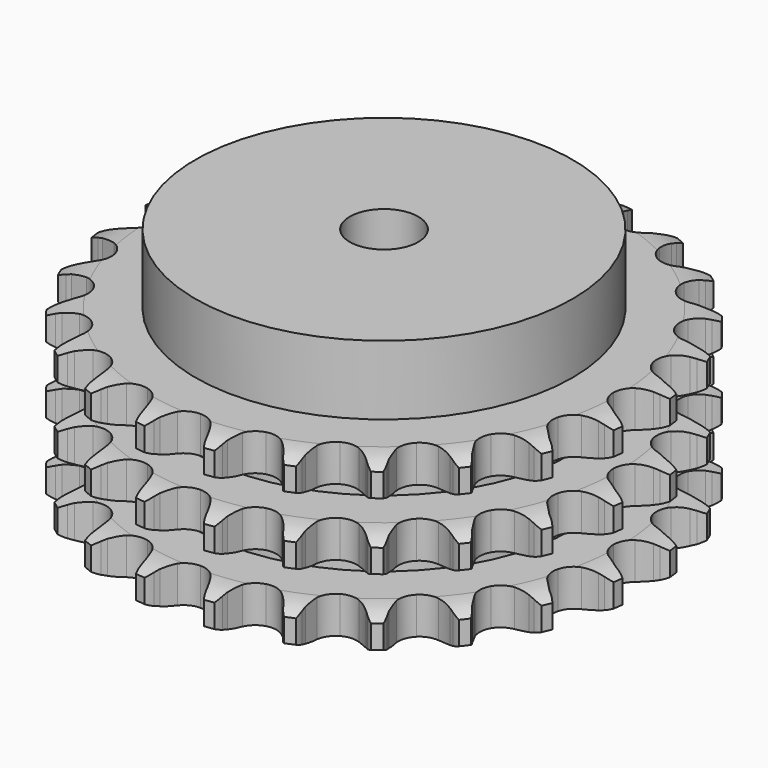
from build123d import *

# Parameters (mm, degrees)
PAD_DEPTH         = 49.8
SKETCH001_R       = 55
PAD001_DEPTH      = 70
SKETCH002_R       = 10
POCKET_DEPTH      = 0.001
POCKET_DEPTH_BACK = 70.001


with BuildPart() as part:
    # Sprocket → Pad (new body)
    with BuildSketch(Plane.XY):
        with BuildLine():
            ThreePointArc((-10.307817, 78.29564), (-8.698653, 76.541305), (-7.554291, 74.453833))
            Line((-7.554291, 74.453833), (-6.968236, 72.99106))
            ThreePointArc((-6.968236, 72.99106), (-6.032923, 71.051956), (-4.842054, 69.258421))
            ThreePointArc((-4.842054, 69.258421), (-2.69941, 67.499998), (0, 66.870584))
            ThreePointArc((0, 66.870584), (2.69941, 67.499998), (4.842054, 69.258421))
            ThreePointArc((4.842054, 69.258421), (6.032923, 71.051956), (6.968236, 72.99106))
            Line((6.968236, 72.99106), (7.554291, 74.453833))
            ThreePointArc((7.554291, 74.453833), (8.698653, 76.541305), (10.307817, 78.29564))
            ThreePointArc((10.307817, 78.29564), (11.408094, 76.1846), (11.973185, 73.872074))
            Line((11.973185, 73.872074), (12.160677, 72.307462))
            ThreePointArc((12.160677, 72.307462), (12.562243, 70.192354), (13.248334, 68.151713))
            ThreePointArc((13.248334, 68.151713), (14.862856, 65.89865), (17.307381, 64.592024))
            ThreePointArc((17.307381, 64.592024), (20.077714, 64.501333), (22.602463, 65.645282))
            Line((22.602463, 65.645282), (25.622276, 68.700438))
            ThreePointArc((25.622276, 68.700438), (26.078841, 69.342877), (26.566954, 69.961685))
            ThreePointArc((26.566954, 69.961685), (28.212601, 71.681846), (30.220989, 72.959922))
            ThreePointArc((30.220989, 72.959922), (30.737398, 70.63604), (30.684708, 68.256056))
            Line((30.684708, 68.256056), (30.46086, 66.696231))
            ThreePointArc((30.46086, 66.696231), (30.301313, 64.54926), (30.435869, 62.400579))
            ThreePointArc((30.435869, 62.400579), (31.412242, 59.806418), (33.435292, 57.911625))
            ThreePointArc((33.435292, 57.911625), (36.087756, 57.107009), (38.822552, 57.558525))
            Line((38.822552, 57.558525), (42.5302, 59.727994))
            ThreePointArc((42.5302, 59.727994), (43.137483, 60.230375), (43.769124, 60.701765))
            ThreePointArc((43.769124, 60.701765), (45.803906, 61.937388), (48.074651, 62.652105))
            ThreePointArc((48.074651, 62.652105), (47.971999, 60.273752), (47.30512, 57.9885))
            Line((47.30512, 57.9885), (46.685186, 56.539761))
            ThreePointArc((46.685186, 56.539761), (45.975399, 54.507241), (45.54925, 52.396948))
            ThreePointArc((45.54925, 52.396948), (45.820936, 49.638477), (47.284644, 47.284644))
            ThreePointArc((47.284644, 47.284644), (49.638477, 45.820936), (52.396948, 45.54925))
            Line((52.396948, 45.54925), (56.539761, 46.685186))
            ThreePointArc((56.539761, 46.685186), (57.256377, 47.013272), (57.9885, 47.30512))
            ThreePointArc((57.9885, 47.30512), (60.273752, 47.971999), (62.652105, 48.074651))
            ThreePointArc((62.652105, 48.074651), (61.937388, 45.803906), (60.701765, 43.769124))
            Line((60.701765, 43.769124), (59.727994, 42.5302))
            ThreePointArc((59.727994, 42.5302), (58.516337, 40.750643), (57.558525, 38.822552))
            ThreePointArc((57.558525, 38.822552), (57.107009, 36.087756), (57.911625, 33.435292))
            ThreePointArc((57.911625, 33.435292), (59.806418, 31.412242), (62.400579, 30.435869))
            Line((62.400579, 30.435869), (66.696231, 30.46086))
            ThreePointArc((66.696231, 30.46086), (67.473344, 30.592293), (68.256056, 30.684708))
            ThreePointArc((68.256056, 30.684708), (70.63604, 30.737398), (72.959922, 30.220989))
            ThreePointArc((72.959922, 30.220989), (71.681846, 28.212601), (69.961685, 26.566954))
            Line((69.961685, 26.566954), (68.700438, 25.622276))
            ThreePointArc((68.700438, 25.622276), (67.069483, 24.216956), (65.645282, 22.602463))
            ThreePointArc((65.645282, 22.602463), (64.501333, 20.077714), (64.592024, 17.307381))
            ThreePointArc((64.592024, 17.307381), (65.89865, 14.862856), (68.151713, 13.248334))
            Line((68.151713, 13.248334), (72.307462, 12.160677))
            ThreePointArc((72.307462, 12.160677), (73.092113, 12.0865), (73.872074, 11.973185))
            ThreePointArc((73.872074, 11.973185), (76.1846, 11.408094), (78.29564, 10.307817))
            ThreePointArc((78.29564, 10.307817), (76.541305, 8.698653), (74.453833, 7.554291))
            Line((74.453833, 7.554291), (72.99106, 6.968236))
            ThreePointArc((72.99106, 6.968236), (71.051956, 6.032923), (69.258421, 4.842054))
            ThreePointArc((69.258421, 4.842054), (67.499998, 2.69941), (66.870584, 0))
            ThreePointArc((66.870584, 0), (67.499998, -2.69941), (69.258421, -4.842054))
            Line((69.258421, -4.842054), (72.99106, -6.968236))
            ThreePointArc((72.99106, -6.968236), (73.729776, -7.242969), (74.453833, -7.554291))
            ThreePointArc((74.453833, -7.554291), (76.541305, -8.698653), (78.29564, -10.307817))
            ThreePointArc((78.29564, -10.307817), (76.1846, -11.408094), (73.872074, -11.973185))
            Line((73.872074, -11.973185), (72.307462, -12.160677))
            ThreePointArc((72.307462, -12.160677), (70.192354, -12.562243), (68.151713, -13.248334))
            ThreePointArc((68.151713, -13.248334), (65.89865, -14.862856), (64.592024, -17.307381))
            ThreePointArc((64.592024, -17.307381), (64.501333, -20.077714), (65.645282, -22.602463))
            Line((65.645282, -22.602463), (68.700438, -25.622276))
            ThreePointArc((68.700438, -25.622276), (69.342877, -26.078841), (69.961685, -26.566954))
            ThreePointArc((69.961685, -26.566954), (71.681846, -28.212601), (72.959922, -30.220989))
            ThreePointArc((72.959922, -30.220989), (70.63604, -30.737398), (68.256056, -30.684708))
            Line((68.256056, -30.684708), (66.696231, -30.46086))
            ThreePointArc((66.696231, -30.46086), (64.54926, -30.301313), (62.400579, -30.435869))
            ThreePointArc((62.400579, -30.435869), (59.806418, -31.412242), (57.911625, -33.435292))
            ThreePointArc((57.911625, -33.435292), (57.107009, -36.087756), (57.558525, -38.822552))
            Line((57.558525, -38.822552), (59.727994, -42.5302))
            ThreePointArc((59.727994, -42.5302), (60.230375, -43.137483), (60.701765, -43.769124))
            ThreePointArc((60.701765, -43.769124), (61.937388, -45.803906), (62.652105, -48.074651))
            ThreePointArc((62.652105, -48.074651), (60.273752, -47.971999), (57.9885, -47.30512))
            Line((57.9885, -47.30512), (56.539761, -46.685186))
            ThreePointArc((56.539761, -46.685186), (54.507241, -45.975399), (52.396948, -45.54925))
            ThreePointArc((52.396948, -45.54925), (49.638477, -45.820936), (47.284644, -47.284644))
            ThreePointArc((47.284644, -47.284644), (45.820936, -49.638477), (45.54925, -52.396948))
            Line((45.54925, -52.396948), (46.685186, -56.539761))
            ThreePointArc((46.685186, -56.539761), (47.013272, -57.256377), (47.30512, -57.9885))
            ThreePointArc((47.30512, -57.9885), (47.971999, -60.273752), (48.074651, -62.652105))
            ThreePointArc((48.074651, -62.652105), (45.803906, -61.937388), (43.769124, -60.701765))
            Line((43.769124, -60.701765), (42.5302, -59.727994))
            ThreePointArc((42.5302, -59.727994), (40.750643, -58.516337), (38.822552, -57.558525))
            ThreePointArc((38.822552, -57.558525), (36.087756, -57.107009), (33.435292, -57.911625))
            ThreePointArc((33.435292, -57.911625), (31.412242, -59.806418), (30.435869, -62.400579))
            Line((30.435869, -62.400579), (30.46086, -66.696231))
            ThreePointArc((30.46086, -66.696231), (30.592293, -67.473344), (30.684708, -68.256056))
            ThreePointArc((30.684708, -68.256056), (30.737398, -70.63604), (30.220989, -72.959922))
            ThreePointArc((30.220989, -72.959922), (28.212601, -71.681846), (26.566954, -69.961685))
            Line((26.566954, -69.961685), (25.622276, -68.700438))
            ThreePointArc((25.622276, -68.700438), (24.216956, -67.069483), (22.602463, -65.645282))
            ThreePointArc((22.602463, -65.645282), (20.077714, -64.501333), (17.307381, -64.592024))
            ThreePointArc((17.307381, -64.592024), (14.862856, -65.89865), (13.248334, -68.151713))
            Line((13.248334, -68.151713), (12.160677, -72.307462))
            ThreePointArc((12.160677, -72.307462), (12.0865, -73.092113), (11.973185, -73.872074))
            ThreePointArc((11.973185, -73.872074), (11.408094, -76.1846), (10.307817, -78.29564))
            ThreePointArc((10.307817, -78.29564), (8.698653, -76.541305), (7.554291, -74.453833))
            Line((7.554291, -74.453833), (6.968236, -72.99106))
            ThreePointArc((6.968236, -72.99106), (6.032923, -71.051956), (4.842054, -69.258421))
            ThreePointArc((4.842054, -69.258421), (2.69941, -67.499998), (0, -66.870584))
            ThreePointArc((0, -66.870584), (-2.69941, -67.499998), (-4.842054, -69.258421))
            Line((-4.842054, -69.258421), (-6.968236, -72.99106))
            ThreePointArc((-6.968236, -72.99106), (-7.242969, -73.729776), (-7.554291, -74.453833))
            ThreePointArc((-7.554291, -74.453833), (-8.698653, -76.541305), (-10.307817, -78.29564))
            ThreePointArc((-10.307817, -78.29564), (-11.408094, -76.1846), (-11.973185, -73.872074))
            Line((-11.973185, -73.872074), (-12.160677, -72.307462))
            ThreePointArc((-12.160677, -72.307462), (-12.562243, -70.192354), (-13.248334, -68.151713))
            ThreePointArc((-13.248334, -68.151713), (-14.862856, -65.89865), (-17.307381, -64.592024))
            ThreePointArc((-17.307381, -64.592024), (-20.077714, -64.501333), (-22.602463, -65.645282))
            Line((-22.602463, -65.645282), (-25.622276, -68.700438))
            ThreePointArc((-25.622276, -68.700438), (-26.078841, -69.342877), (-26.566954, -69.961685))
            ThreePointArc((-26.566954, -69.961685), (-28.212601, -71.681846), (-30.220989, -72.959922))
            ThreePointArc((-30.220989, -72.959922), (-30.737398, -70.63604), (-30.684708, -68.256056))
            Line((-30.684708, -68.256056), (-30.46086, -66.696231))
            ThreePointArc((-30.46086, -66.696231), (-30.301313, -64.54926), (-30.435869, -62.400579))
            ThreePointArc((-30.435869, -62.400579), (-31.412242, -59.806418), (-33.435292, -57.911625))
            ThreePointArc((-33.435292, -57.911625), (-36.087756, -57.107009), (-38.822552, -57.558525))
            Line((-38.822552, -57.558525), (-42.5302, -59.727994))
            ThreePointArc((-42.5302, -59.727994), (-43.137483, -60.230375), (-43.769124, -60.701765))
            ThreePointArc((-43.769124, -60.701765), (-45.803906, -61.937388), (-48.074651, -62.652105))
            ThreePointArc((-48.074651, -62.652105), (-47.971999, -60.273752), (-47.30512, -57.9885))
            Line((-47.30512, -57.9885), (-46.685186, -56.539761))
            ThreePointArc((-46.685186, -56.539761), (-45.975399, -54.507241), (-45.54925, -52.396948))
            ThreePointArc((-45.54925, -52.396948), (-45.820936, -49.638477), (-47.284644, -47.284644))
            ThreePointArc((-47.284644, -47.284644), (-49.638477, -45.820936), (-52.396948, -45.54925))
            Line((-52.396948, -45.54925), (-56.539761, -46.685186))
            ThreePointArc((-56.539761, -46.685186), (-57.256377, -47.013272), (-57.9885, -47.30512))
            ThreePointArc((-57.9885, -47.30512), (-60.273752, -47.971999), (-62.652105, -48.074651))
            ThreePointArc((-62.652105, -48.074651), (-61.937388, -45.803906), (-60.701765, -43.769124))
            Line((-60.701765, -43.769124), (-59.727994, -42.5302))
            ThreePointArc((-59.727994, -42.5302), (-58.516337, -40.750643), (-57.558525, -38.822552))
            ThreePointArc((-57.558525, -38.822552), (-57.107009, -36.087756), (-57.911625, -33.435292))
            ThreePointArc((-57.911625, -33.435292), (-59.806418, -31.412242), (-62.400579, -30.435869))
            Line((-62.400579, -30.435869), (-66.696231, -30.46086))
            ThreePointArc((-66.696231, -30.46086), (-67.473344, -30.592293), (-68.256056, -30.684708))
            ThreePointArc((-68.256056, -30.684708), (-70.63604, -30.737398), (-72.959922, -30.220989))
            ThreePointArc((-72.959922, -30.220989), (-71.681846, -28.212601), (-69.961685, -26.566954))
            Line((-69.961685, -26.566954), (-68.700438, -25.622276))
            ThreePointArc((-68.700438, -25.622276), (-67.069483, -24.216956), (-65.645282, -22.602463))
            ThreePointArc((-65.645282, -22.602463), (-64.501333, -20.077714), (-64.592024, -17.307381))
            ThreePointArc((-64.592024, -17.307381), (-65.89865, -14.862856), (-68.151713, -13.248334))
            Line((-68.151713, -13.248334), (-72.307462, -12.160677))
            ThreePointArc((-72.307462, -12.160677), (-73.092113, -12.0865), (-73.872074, -11.973185))
            ThreePointArc((-73.872074, -11.973185), (-76.1846, -11.408094), (-78.29564, -10.307817))
            ThreePointArc((-78.29564, -10.307817), (-76.541305, -8.698653), (-74.453833, -7.554291))
            Line((-74.453833, -7.554291), (-72.99106, -6.968236))
            ThreePointArc((-72.99106, -6.968236), (-71.051956, -6.032923), (-69.258421, -4.842054))
            ThreePointArc((-69.258421, -4.842054), (-67.499998, -2.69941), (-66.870584, 0))
            ThreePointArc((-66.870584, 0), (-67.499998, 2.69941), (-69.258421, 4.842054))
            Line((-69.258421, 4.842054), (-72.99106, 6.968236))
            ThreePointArc((-72.99106, 6.968236), (-73.729776, 7.242969), (-74.453833, 7.554291))
            ThreePointArc((-74.453833, 7.554291), (-76.541305, 8.698653), (-78.29564, 10.307817))
            ThreePointArc((-78.29564, 10.307817), (-76.1846, 11.408094), (-73.872074, 11.973185))
            Line((-73.872074, 11.973185), (-72.307462, 12.160677))
            ThreePointArc((-72.307462, 12.160677), (-70.192354, 12.562243), (-68.151713, 13.248334))
            ThreePointArc((-68.151713, 13.248334), (-65.89865, 14.862856), (-64.592024, 17.307381))
            ThreePointArc((-64.592024, 17.307381), (-64.501333, 20.077714), (-65.645282, 22.602463))
            Line((-65.645282, 22.602463), (-68.700438, 25.622276))
            ThreePointArc((-68.700438, 25.622276), (-69.342877, 26.078841), (-69.961685, 26.566954))
            ThreePointArc((-69.961685, 26.566954), (-71.681846, 28.212601), (-72.959922, 30.220989))
            ThreePointArc((-72.959922, 30.220989), (-70.63604, 30.737398), (-68.256056, 30.684708))
            Line((-68.256056, 30.684708), (-66.696231, 30.46086))
            ThreePointArc((-66.696231, 30.46086), (-64.54926, 30.301313), (-62.400579, 30.435869))
            ThreePointArc((-62.400579, 30.435869), (-59.806418, 31.412242), (-57.911625, 33.435292))
            ThreePointArc((-57.911625, 33.435292), (-57.107009, 36.087756), (-57.558525, 38.822552))
            Line((-57.558525, 38.822552), (-59.727994, 42.5302))
            ThreePointArc((-59.727994, 42.5302), (-60.230375, 43.137483), (-60.701765, 43.769124))
            ThreePointArc((-60.701765, 43.769124), (-61.937388, 45.803906), (-62.652105, 48.074651))
            ThreePointArc((-62.652105, 48.074651), (-60.273752, 47.971999), (-57.9885, 47.30512))
            Line((-57.9885, 47.30512), (-56.539761, 46.685186))
            ThreePointArc((-56.539761, 46.685186), (-54.507241, 45.975399), (-52.396948, 45.54925))
            ThreePointArc((-52.396948, 45.54925), (-49.638477, 45.820936), (-47.284644, 47.284644))
            ThreePointArc((-47.284644, 47.284644), (-45.820936, 49.638477), (-45.54925, 52.396948))
            Line((-45.54925, 52.396948), (-46.685186, 56.539761))
            ThreePointArc((-46.685186, 56.539761), (-47.013272, 57.256377), (-47.30512, 57.9885))
            ThreePointArc((-47.30512, 57.9885), (-47.971999, 60.273752), (-48.074651, 62.652105))
            ThreePointArc((-48.074651, 62.652105), (-45.803906, 61.937388), (-43.769124, 60.701765))
            Line((-43.769124, 60.701765), (-42.5302, 59.727994))
            ThreePointArc((-42.5302, 59.727994), (-40.750643, 58.516337), (-38.822552, 57.558525))
            ThreePointArc((-38.822552, 57.558525), (-36.087756, 57.107009), (-33.435292, 57.911625))
            ThreePointArc((-33.435292, 57.911625), (-31.412242, 59.806418), (-30.435869, 62.400579))
            Line((-30.435869, 62.400579), (-30.46086, 66.696231))
            ThreePointArc((-30.46086, 66.696231), (-30.592293, 67.473344), (-30.684708, 68.256056))
            ThreePointArc((-30.684708, 68.256056), (-30.737398, 70.63604), (-30.220989, 72.959922))
            ThreePointArc((-30.220989, 72.959922), (-28.212601, 71.681846), (-26.566954, 69.961685))
            Line((-26.566954, 69.961685), (-25.622276, 68.700438))
            ThreePointArc((-25.622276, 68.700438), (-24.216956, 67.069483), (-22.602463, 65.645282))
            ThreePointArc((-22.602463, 65.645282), (-20.077714, 64.501333), (-17.307381, 64.592024))
            ThreePointArc((-17.307381, 64.592024), (-14.862856, 65.89865), (-13.248334, 68.151713))
            Line((-13.248334, 68.151713), (-12.160677, 72.307462))
            ThreePointArc((-12.160677, 72.307462), (-12.0865, 73.092113), (-11.973185, 73.872074))
            ThreePointArc((-11.973185, 73.872074), (-11.408094, 76.1846), (-10.307817, 78.29564))
        make_face()
    extrude(amount=PAD_DEPTH)

    # Sketch → Groove (revolve, cut)
    with BuildSketch(Plane.XZ):
        with BuildLine():
            ThreePointArc((68.464719, 0), (72.823618, 0.506758), (76.95, 2))
            Line((76.95, 2), (76.95, 8.8))
            ThreePointArc((76.95, 8.8), (72.823618, 10.293242), (68.464719, 10.8))
            Line((55, 10.8), (68.464719, 10.8))
            Line((55, 10.8), (55, 19.5))
            Line((55, 19.5), (68.464719, 19.5))
            ThreePointArc((68.464719, 19.5), (72.823618, 20.006758), (76.95, 21.5))
            Line((76.95, 28.3), (76.95, 21.5))
            ThreePointArc((76.95, 28.3), (72.823618, 29.793242), (68.464719, 30.3))
            Line((55, 30.3), (68.464719, 30.3))
            Line((55, 39), (55, 30.3))
            Line((68.464719, 39), (55, 39))
            ThreePointArc((68.464719, 39), (72.823618, 39.506758), (76.95, 41))
            Line((76.95, 41), (76.95, 47.8))
            ThreePointArc((76.95, 47.8), (72.823618, 49.293242), (68.464719, 49.8))
            Line((68.464719, 49.8), (86.95, 49.8))
            Line((86.95, 49.8), (86.95, 0))
            Line((68.464719, 0), (86.95, 0))
        make_face()
    revolve(axis=Axis((0, 0, 0), (0, 0, 1)), mode=Mode.SUBTRACT)

    # Sketch001 → Pad001 (join)
    with BuildSketch(Plane.XY):
        Circle(SKETCH001_R)
    extrude(amount=PAD001_DEPTH)

    # Sketch002 → Pocket (cut, two sides)
    with BuildSketch(Plane.XY) as pocket_sk:
        Circle(SKETCH002_R)
    extrude(amount=-POCKET_DEPTH, mode=Mode.SUBTRACT)
    extrude(pocket_sk.sketch, amount=POCKET_DEPTH_BACK, mode=Mode.SUBTRACT)


solid = part.part
